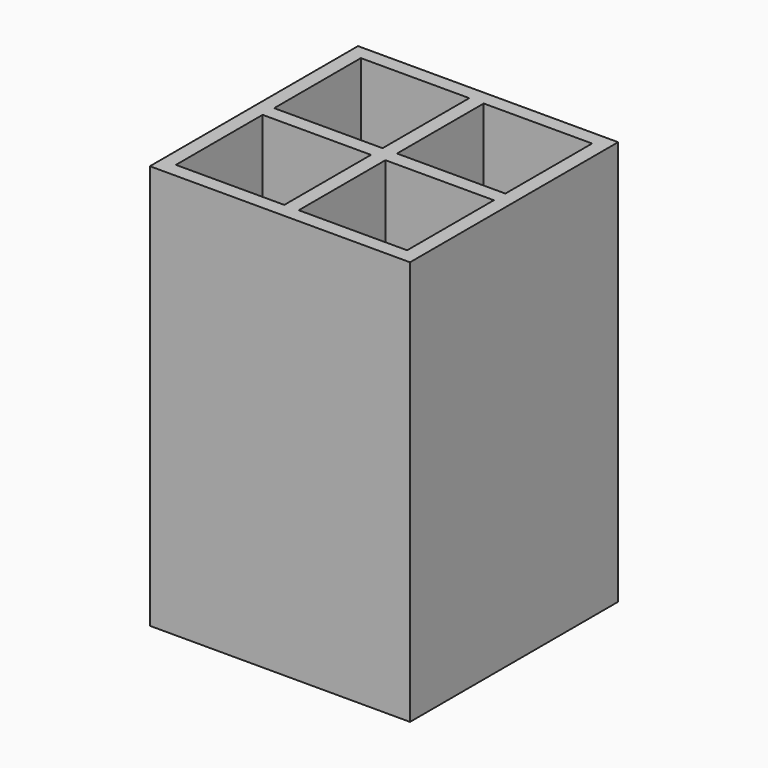
from build123d import *

# Parameters (mm, degrees)
F0_W     = 57.15
F0_H     = 57.15
F1_DEPTH = 88.9
F2_W     = 23.8125
F2_H     = 23.8125
F3_DEPTH = 111.252
F4_W     = 57.15
F4_H     = 57.15
F5_DEPTH = 3.175


with BuildPart() as f1:
    # F0 (on Top) → F1 (new body)
    with BuildSketch(Plane.XY):
        Rectangle(F0_W, F0_H)
    extrude(amount=F1_DEPTH)

    # F2 (on face) → F3 (cut)
    with BuildSketch(Plane(origin=(0, 0, 0), x_dir=(1, 0, 0), z_dir=(0, 0, -1))):
        with Locations((-13.49375, 13.49375)):
            Rectangle(F2_W, F2_H)
        with Locations((13.49375, 13.49375)):
            Rectangle(F2_W, F2_H)
        with Locations((13.49375, -13.49375)):
            Rectangle(F2_W, F2_H)
        with Locations((-13.49375, -13.49375)):
            Rectangle(F2_W, F2_H)
    extrude(amount=-F3_DEPTH, mode=Mode.SUBTRACT)

    # F4 (on face) → F5 (join)
    with BuildSketch(Plane(origin=(0, 0, 0), x_dir=(1, 0, 0), z_dir=(0, 0, -1))):
        Rectangle(F4_W, F4_H)
    extrude(amount=-F5_DEPTH)


solid = f1.part
